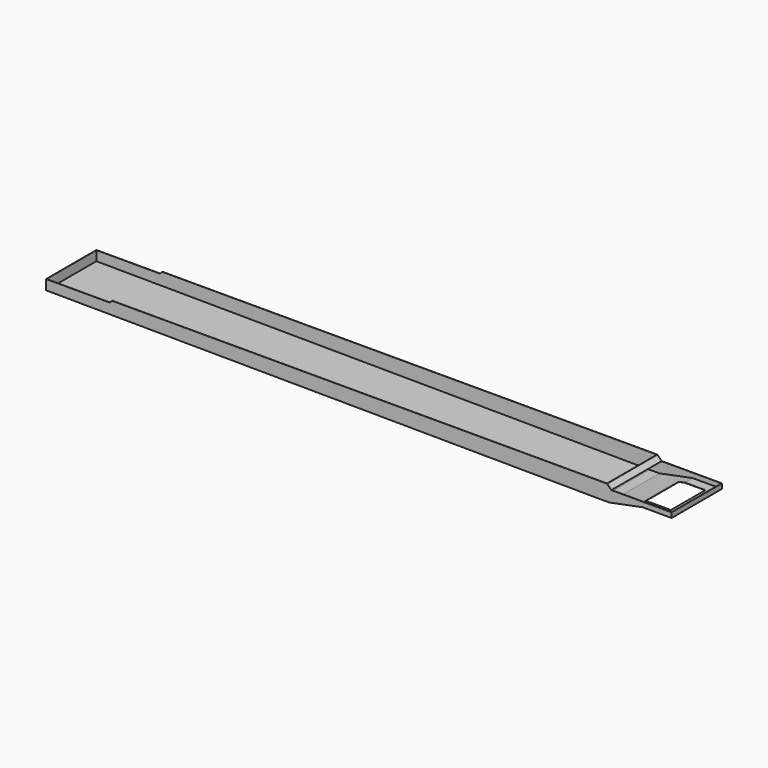
from build123d import *

# Parameters (mm, degrees)
SKETCH039_W      = 400
SKETCH039_H      = 650
EXTRUDE033_DEPTH = 25
EXTRUDE032_DEPTH = 472
EXTRUDE015_DEPTH = 475


with BuildPart() as extrude033:
    # Sketch039 → Extrude033 (new body, symmetric)
    with BuildSketch(Plane(origin=(371.334729, 0, 0), x_dir=(1, 0, 0), z_dir=(0, 0, 1))):
        with Locations((8300, 0)):
            Rectangle(SKETCH039_W, SKETCH039_H)
    extrude(amount=EXTRUDE033_DEPTH, both=True)


with BuildPart() as extrude033_1:
    # Extrude033 placement: moved
    add(extrude033.part.moved(Location((-152, 0, -350))))


with BuildPart() as extrude032:
    # Sketch040 → Extrude032 (new body, symmetric)
    with BuildSketch(Plane.XZ):
        Polygon((-597, -242), (362, -242), (397, -207), (7872, -207), (7937, -272), (8847, -272), (8847, -344), (8410, -344), (7910, -444), (7760, -444), (-597, -389), align=None)
    extrude(amount=EXTRUDE032_DEPTH, both=True)


with BuildPart() as extrude032_1:
    # Extrude032 placement: moved
    add(extrude032.part.moved(Location((0, 0, 3))))


with BuildPart() as cut004:
    # Sketch023 → Extrude015 (new body, symmetric)
    with BuildSketch(Plane.XZ):
        Polygon((-600, -239), (362, -239), (397, -204), (7875, -204), (7940, -269), (8850, -269), (8850, -344), (8410, -344), (7910, -444), (7760, -444), (-600, -389), align=None)
    extrude(amount=EXTRUDE015_DEPTH, both=True)

    # Cut002: cut Extrude032
    add(extrude032_1.part, mode=Mode.SUBTRACT)

    # Cut004: cut Extrude033
    add(extrude033_1.part, mode=Mode.SUBTRACT)


solid = cut004.part
